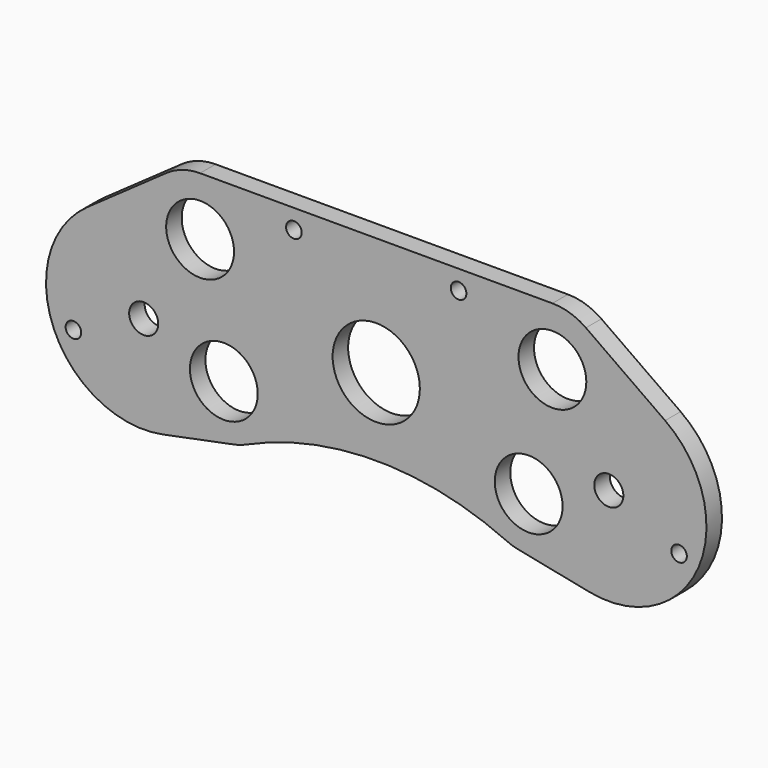
from build123d import *

# Parameters (mm, degrees)
F0_R     = 2.5527
F0_R_2   = 4.7625
F0_R_3   = 11.1125
F0_R_4   = 14.2875
F1_DEPTH = 6.35
F3_DEPTH = 25.4


with BuildPart() as f1:
    # F0 (on Front) → F1 (new body)
    with BuildSketch(Plane.XZ):
        with BuildLine():
            ThreePointArc((-94.654118, 86.472687), (-108.076175, 63.182526), (-99.010505, 37.876462))
            Line((-99.010505, 37.876462), (-43.757367, -18.267594))
            ThreePointArc((-43.757367, -18.267594), (-41.627815, -19.810445), (-39.111045, -20.572845))
            Line((-39.111045, -20.572845), (-3.033135, -25.206036))
            ThreePointArc((-3.033135, -25.206036), (0, -25.4), (3.033135, -25.206036))
            Line((3.033135, -25.206036), (39.111045, -20.572845))
            ThreePointArc((39.111045, -20.572845), (41.627815, -19.810445), (43.757367, -18.267594))
            Line((43.757367, -18.267594), (99.010505, 37.876462))
            ThreePointArc((99.010505, 37.876462), (108.076175, 63.182526), (94.654118, 86.472687))
            Line((94.654118, 86.472687), (68.703576, 104.787667))
            ThreePointArc((68.703576, 104.787667), (63.481204, 107.381191), (57.718982, 108.273567))
            Line((57.718982, 108.273567), (-57.718982, 108.273567))
            ThreePointArc((-57.718982, 108.273567), (-63.481204, 107.381191), (-68.703576, 104.787667))
            Line((-68.703576, 104.787667), (-94.654118, 86.472687))
        make_face()
        with Locations((-38.1, -12.7)):
            Circle(F0_R, mode=Mode.SUBTRACT)
        with Locations((-38.1, 12.7)):
            Circle(F0_R, mode=Mode.SUBTRACT)
        with Locations((38.1, -12.7)):
            Circle(F0_R, mode=Mode.SUBTRACT)
        with Locations((38.1, 12.7)):
            Circle(F0_R, mode=Mode.SUBTRACT)
        with Locations((-99.220218, 49.590496)):
            Circle(F0_R, mode=Mode.SUBTRACT)
        with Locations((-76.2, 60.325)):
            Circle(F0_R_2, mode=Mode.SUBTRACT)
        with Locations((-49.944684, 50.769793)):
            Circle(F0_R_3, mode=Mode.SUBTRACT)
        with Locations((-57.718982, 89.223567)):
            Circle(F0_R_3, mode=Mode.SUBTRACT)
        with Locations((-26.9875, 101.923567)):
            Circle(F0_R, mode=Mode.SUBTRACT)
        with Locations((49.944684, 50.769793)):
            Circle(F0_R_3, mode=Mode.SUBTRACT)
        with Locations((0, 69.5325)):
            Circle(F0_R_4, mode=Mode.SUBTRACT)
        with Locations((99.220218, 49.590496)):
            Circle(F0_R, mode=Mode.SUBTRACT)
        with Locations((76.2, 60.325)):
            Circle(F0_R_2, mode=Mode.SUBTRACT)
        with Locations((26.9875, 101.923567)):
            Circle(F0_R, mode=Mode.SUBTRACT)
        with Locations((57.718982, 89.223567)):
            Circle(F0_R_3, mode=Mode.SUBTRACT)
    extrude(amount=F1_DEPTH)

    # F2 (on face) → F3 (cut)
    with BuildSketch(Plane.XZ.offset(6.35)):
        with BuildLine():
            ThreePointArc((-69.893575, 28.948496), (-85.582074, 29.72708), (-99.010505, 37.876462))
            Line((-99.010505, 37.876462), (-99.010505, -25.4))
            Line((-99.010505, -25.4), (99.010505, -25.4))
            Line((99.010505, -25.4), (99.010505, 37.876462))
            ThreePointArc((99.010505, 37.876462), (85.582074, 29.72708), (69.893575, 28.948496))
            Line((69.893575, 28.948496), (46.503678, 33.649677))
            ThreePointArc((46.503678, 33.649677), (44.574094, 34.153667), (42.714559, 34.874379))
            ThreePointArc((42.714559, 34.874379), (0, 44.1325), (-42.714559, 34.874379))
            ThreePointArc((-42.714559, 34.874379), (-44.574094, 34.153667), (-46.503678, 33.649677))
            Line((-46.503678, 33.649677), (-69.893575, 28.948496))
        make_face()
    extrude(amount=-F3_DEPTH, mode=Mode.SUBTRACT)


solid = f1.part
